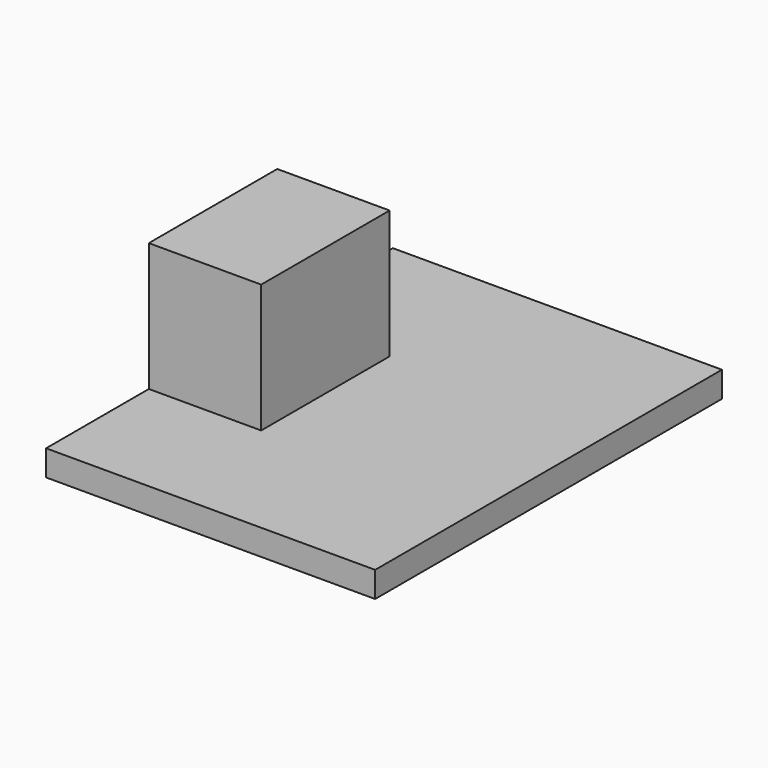
from build123d import *

# Parameters (mm, degrees)
BOX004_W     = 7
BOX004_H     = 10
BOX004_DEPTH = 8
BOX003_W     = 20.5
BOX003_H     = 27
BOX003_DEPTH = 1.6


with BuildPart() as cube004:
    # Box004 → Box004 (new body)
    with BuildSketch(Plane(origin=(0, 8, 1.6), x_dir=(1, 0, 0), z_dir=(0, 0, 1))):
        with Locations((3.5, 5)):
            Rectangle(BOX004_W, BOX004_H)
    extrude(amount=BOX004_DEPTH)


with BuildPart() as obj1:
    # Box003 → Box003 (new body)
    with BuildSketch(Plane.XY):
        with Locations((10.25, 13.5)):
            Rectangle(BOX003_W, BOX003_H)
    extrude(amount=BOX003_DEPTH)

    # Fusion001: union Cube004
    add(cube004.part)


with BuildPart() as obj1_1:
    # Fusion001 placement: moved
    add(obj1.part.moved(Location((24, -52.25, 7))))


solid = obj1_1.part
